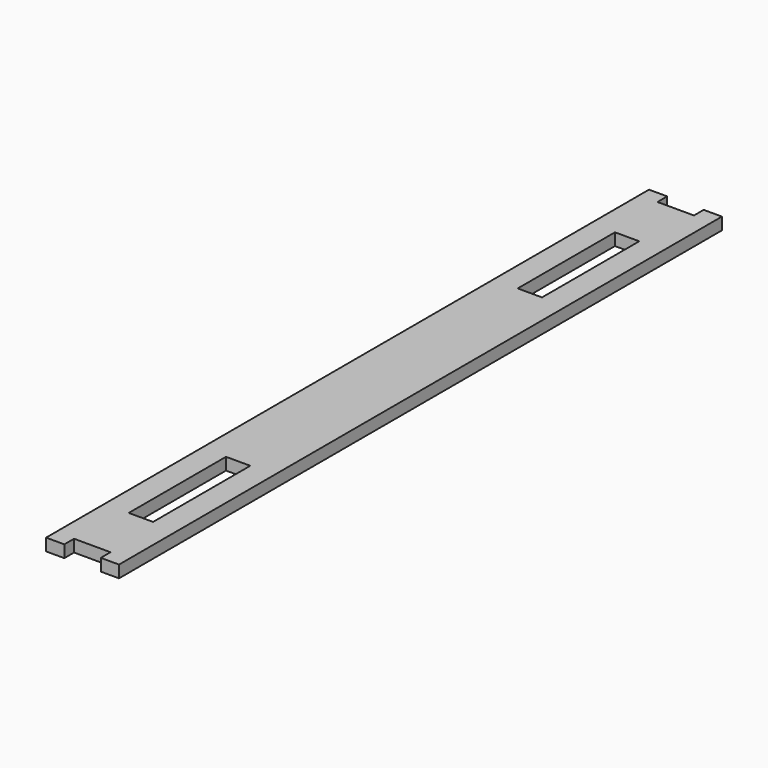
from build123d import *

# Parameters (mm, degrees)
F0_W     = 7.5
F0_H     = 5
F1_DEPTH = 2.5
F2_W     = 10
F2_H     = 50
F3_DEPTH = 10
F4_W     = 10
F4_H     = 50
F5_DEPTH = 10


with BuildPart() as f1:
    # F0 (on Top) → F1 (new body, symmetric)
    with BuildSketch(Plane.XY):
        Polygon((7.5, -150), (15, -150), (15, 150), (7.5, 150), (-7.5, 150), (-15, 150), (-15, -150), (-7.5, -150), align=None)
        with Locations((-11.25, -152.5)):
            Rectangle(F0_W, F0_H)
        with Locations((11.25, 152.5)):
            Rectangle(F0_W, F0_H)
        with Locations((-11.25, 152.5)):
            Rectangle(F0_W, F0_H)
        with Locations((11.25, -152.5)):
            Rectangle(F0_W, F0_H)
    extrude(amount=F1_DEPTH, both=True)

    # F2 (on face) → F3 (cut)
    with BuildSketch(Plane.XY.offset(2.5)):
        with Locations((0, -100)):
            Rectangle(F2_W, F2_H)
    extrude(amount=-F3_DEPTH, mode=Mode.SUBTRACT)

    # F4 (on face) → F5 (cut)
    with BuildSketch(Plane.XY.offset(2.5)):
        with Locations((0, 100)):
            Rectangle(F4_W, F4_H)
    extrude(amount=-F5_DEPTH, mode=Mode.SUBTRACT)


solid = f1.part
